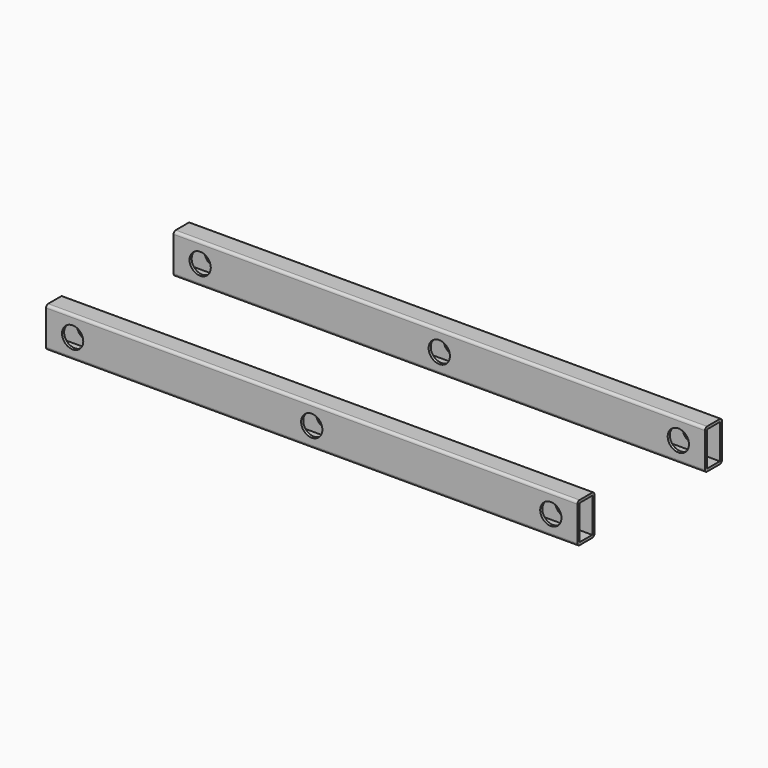
from build123d import *

# Parameters (mm, degrees)
F0_W          = 60
F0_H          = 130
F1_DEPTH      = 1000
F2_R          = 40
F3_DEPTH      = 340.001
F3_DEPTH_BACK = 340.001


with BuildPart() as f1:
    # F0 (on Right) → F1 (new body, symmetric)
    with BuildSketch(Plane.YZ):
        with BuildLine():
            Line((-330, -75), (-270, -75))
            ThreePointArc((-270, -75), (-262.9289321881, -72.0710678119), (-260, -65))
            Line((-260, -65), (-260, 65))
            ThreePointArc((-260, 65), (-262.9289321881, 72.0710678119), (-270, 75))
            Line((-270, 75), (-330, 75))
            ThreePointArc((-330, 75), (-337.0710678119, 72.0710678119), (-340, 65))
            Line((-340, 65), (-340, -65))
            ThreePointArc((-340, -65), (-337.0710678119, -72.0710678119), (-330, -75))
        make_face()
        with Locations((-300, 0)):
            Rectangle(F0_W, F0_H, mode=Mode.SUBTRACT)
    extrude(amount=F1_DEPTH, both=True)


with BuildPart() as f1b:
    # F0 (on Right) → F1, piece 2 (new body, symmetric)
    with BuildSketch(Plane.YZ):
        with BuildLine():
            ThreePointArc((340, 65), (337.0710678119, 72.0710678119), (330, 75))
            Line((330, 75), (270, 75))
            ThreePointArc((270, 75), (262.9289321881, 72.0710678119), (260, 65))
            Line((260, 65), (260, -65))
            ThreePointArc((260, -65), (262.9289321881, -72.0710678119), (270, -75))
            Line((270, -75), (330, -75))
            ThreePointArc((330, -75), (337.0710678119, -72.0710678119), (340, -65))
            Line((340, -65), (340, 65))
        make_face()
        with Locations((300, 0)):
            Rectangle(F0_W, F0_H, mode=Mode.SUBTRACT)
    extrude(amount=F1_DEPTH, both=True)


with BuildPart() as f3_tool:
    # F2 (on Front) → F3 (new body, two sides)
    with BuildSketch(Plane.XZ) as f3_sk:
        with Locations((900, 0)):
            Circle(F2_R)
        Circle(F2_R)
        with Locations((-900, 0)):
            Circle(F2_R)
    extrude(amount=-F3_DEPTH)
    extrude(f3_sk.sketch, amount=F3_DEPTH_BACK)


with BuildPart() as f1_1:
    add(f1.part)

    # F3: cut by f3_tool
    add(f3_tool.part, mode=Mode.SUBTRACT)


with BuildPart() as f1b_1:
    add(f1b.part)

    # F3: cut by f3_tool
    add(f3_tool.part, mode=Mode.SUBTRACT)


solid = Compound([f1_1.part, f1b_1.part])
